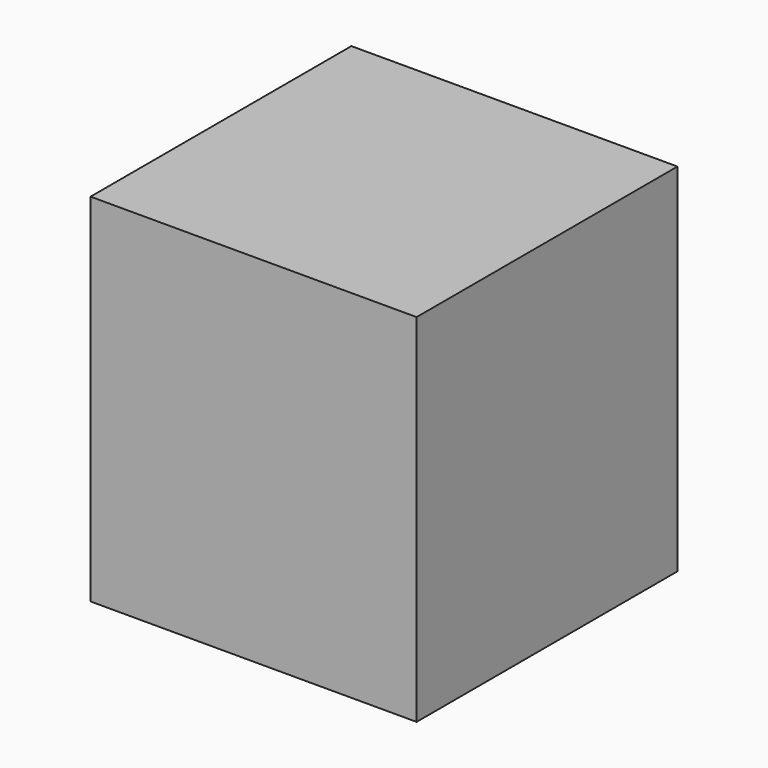
from build123d import *

# Parameters (mm, degrees)
SKETCH_W      = 43
SKETCH_H      = 43
EXTRUDE_DEPTH = 47


with BuildPart() as part:
    # Sketch → Extrude (new body)
    with BuildSketch(Plane.XY):
        with Locations((-49.279308, 19.537243)):
            Rectangle(SKETCH_W, SKETCH_H)
    extrude(amount=EXTRUDE_DEPTH)


solid = part.part
